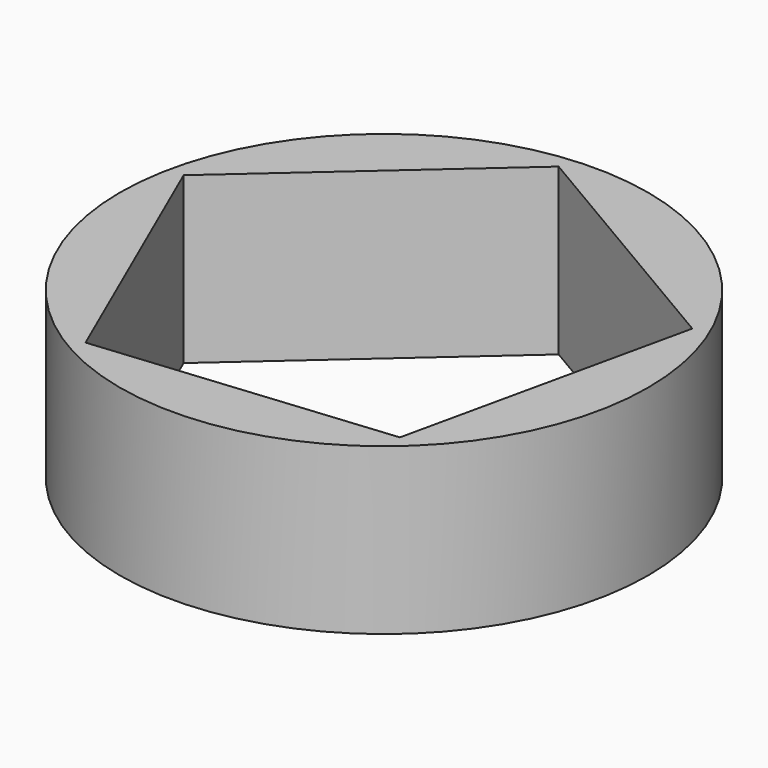
from build123d import *

# Parameters (mm, degrees)
F0_R     = 64.901098
F1_DEPTH = 40.64


with BuildPart() as f1:
    # F0 (on Top) → F1 (new body)
    with BuildSketch(Plane.XY):
        with Locations((-36.623258, 29.243397)):
            Circle(F0_R)
        Polygon((-67.716826, -23.572141), (-96.46226, 42.494238), (-42.512227, 90.248405), (19.576161, 53.695723), (3.998862, -16.649243), align=None, mode=Mode.SUBTRACT)
    extrude(amount=-F1_DEPTH)


solid = f1.part
